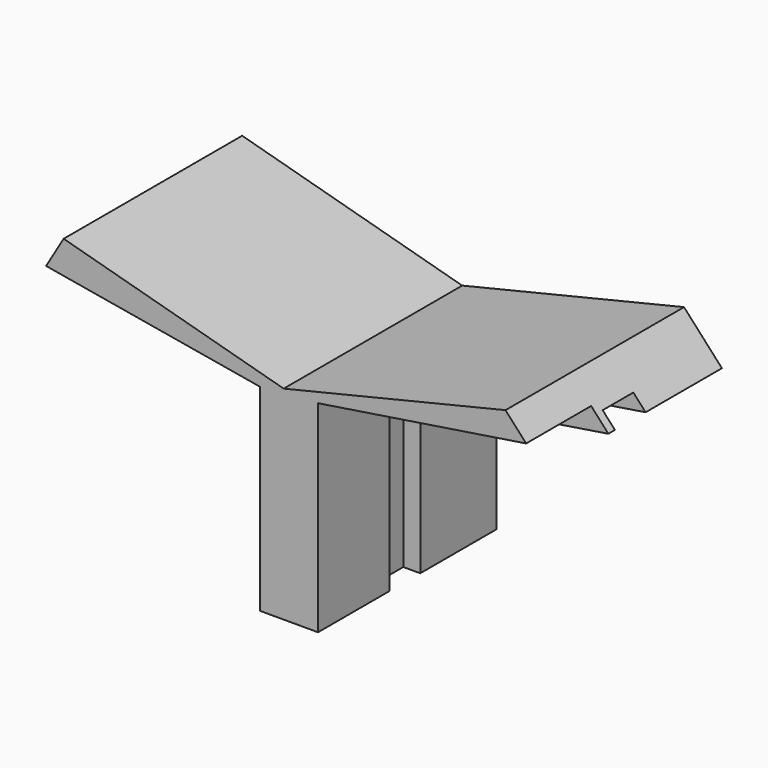
from build123d import *

# Parameters (mm, degrees)
F1_DEPTH  = 25
F2_W      = 25.5589389365
F2_H      = 4.2958939448
F3_DEPTH  = 1.7
F4_W      = 4.2958939448
F4_H      = 20.1124101877
F5_DEPTH  = 1.9
F6_W      = 4.4450499117
F6_H      = 20.1124101877
F8_DEPTH  = 1.8
F7_W      = 25.5589389365
F7_H      = 4.2430022731
F9_DEPTH  = 1.9
F11_DEPTH = 9.1


with BuildPart() as f1:
    # F0 (on Front) → F1 (new body)
    with BuildSketch(Plane.XZ):
        Polygon((-19.4574361484, 2.6685861076), (-44.104386121, 9.4352113083), (-47.3371483386, 3.9799264632), (-22.0899792911, 0), (-22.0899792911, -20.1124101877), (-15.6050544099, -20.1124101877), (-15.6050544099, 0), (9.6421146375, 3.9799264632), (5.3972699679, 8.6270207539), align=None)
    extrude(amount=F1_DEPTH)

    # F2 (on face) → F3 (cut)
    with BuildSketch(Plane(origin=(-0.378381367, 0, 2.4003102636), x_dir=(0.9878019236, 0, 0.1557156372), z_dir=(0.1557156372, 0, -0.9878019236))):
        with Locations((-2.6352332962, 12.8331626765)):
            Rectangle(F2_W, F2_H)
    extrude(amount=-F3_DEPTH, mode=Mode.SUBTRACT)

    # F4 (on face) → F5 (cut)
    with BuildSketch(Plane.YZ.offset(-15.6050544099)):
        with Locations((-12.8331626765, -10.0562050939)):
            Rectangle(F4_W, F4_H)
    extrude(amount=-F5_DEPTH, mode=Mode.SUBTRACT)

    # F6 (on face) → F8 (cut)
    with BuildSketch(Plane(origin=(-22.0899792911, 0, 0), x_dir=(0, -1, 0), z_dir=(-1, 0, 0))):
        with Locations((12.4689359218, -10.0562050939)):
            Rectangle(F6_W, F6_H)
    extrude(amount=-F8_DEPTH, mode=Mode.SUBTRACT)

    # F7 (on face) → F9 (cut)
    with BuildSketch(Plane(origin=(-0.5356236731, 0, -3.3977968049), x_dir=(0.9878019236, 0, -0.1557156372), z_dir=(-0.1557156372, 0, -0.9878019236))):
        with Locations((-34.599993505, 12.1658644639)):
            Rectangle(F7_W, F7_H)
    extrude(amount=-F9_DEPTH, mode=Mode.SUBTRACT)

    # F10 (on face) → F11 (cut)
    with BuildSketch(Plane.XZ.offset(25)):
        Polygon((-22.0899792911, 1.9871564582), (-46.0743617449, 6.1108782943), (-47.3371483386, 3.9799264632), (-22.0899792911, 0), align=None)
        Polygon((9.6421146375, 3.9799264632), (7.7104689044, 6.0946186502), (-15.6050544099, 2.4822140113), (-15.6050544099, 0), align=None)
    extrude(amount=-F11_DEPTH, mode=Mode.SUBTRACT)


solid = f1.part
